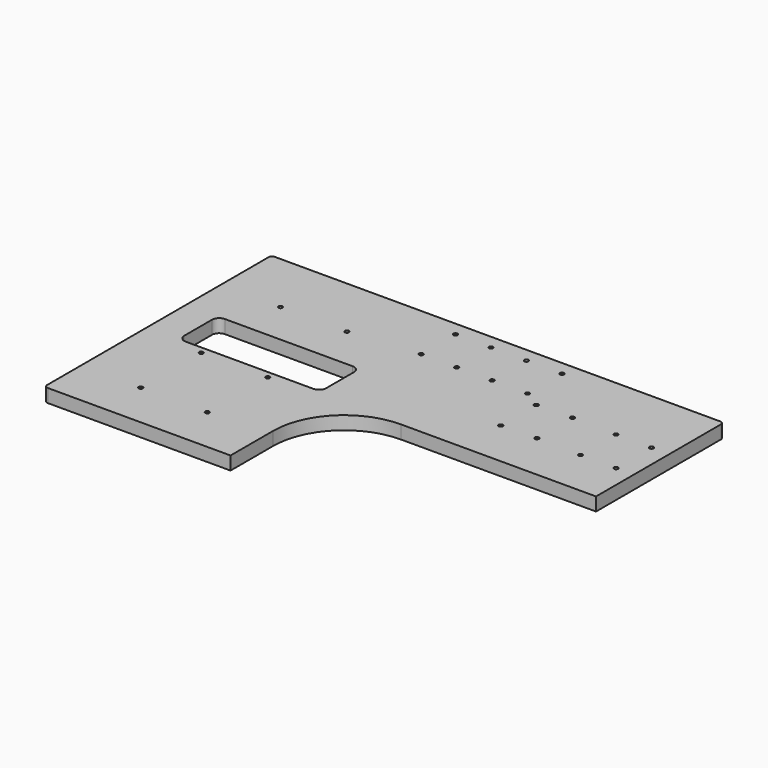
from build123d import *

# Parameters (mm, degrees)
F0_W           = 323.85
F0_H           = 203.2
F1_DEPTH       = 9.525
F2_R           = 2.54
F4_D           = 2.7178
F4_CSINK_D     = 2.9718
F4_CSINK_ANGLE = 82
F5_W           = 101.6
F5_H           = 35.052
F6_DEPTH       = 25.4
F7_R           = 5.08
F10_D          = 19.05
F11_DEPTH      = 25.4


with BuildPart() as f1:
    # F0 (on Top) → F1 (new body)
    with BuildSketch(Plane.XY):
        with Locations((-161.925, 101.6)):
            Rectangle(F0_W, F0_H)
    extrude(amount=F1_DEPTH)

    # F2
    f2_edges = [f1.edges().sort_by_distance(p)[0] for p in [
        (0, 0, 4.7625),
        (0, 203.2, 4.7625),
        (-323.85, 203.2, 4.7625),
        (-323.85, 0, 4.7625),
    ]]
    fillet(f2_edges, radius=F2_R)

    # F4 (through all)
    with Locations(Plane.XY.offset(9.525)):
        with Locations((-280.9748, 157.734), (-233.3498, 157.734), (-233.3498, 86.868), (-280.9748, 86.868), (-280.9748, 32.766), (-233.3498, 32.766), (-183.896, 193.04), (-158.496, 193.04), (-133.096, 193.04), (-107.696, 193.04), (-107.696, 162.306), (-133.096, 162.306), (-158.496, 162.306), (-183.896, 162.306), (-95.25, 154.432), (-95.25, 122.682), (-69.858725, 155.0977), (-69.85, 123.3477), (-38.108725, 154.432), (-38.1, 122.682001), (-12.708725, 154.432), (-12.7, 122.682)):
            CounterSinkHole(F4_D / 2, F4_CSINK_D / 2, counter_sink_angle=F4_CSINK_ANGLE)

    # F5 (on face) → F6 (cut)
    with BuildSketch(Plane.XY.offset(9.525)):
        with Locations((-250.453002, 109.474)):
            Rectangle(F5_W, F5_H)
    extrude(amount=-F6_DEPTH, mode=Mode.SUBTRACT)

    # F7
    f7_edges = [f1.edges().sort_by_distance(p)[0] for p in [
        (-301.253002, 91.948, 4.7625),
        (-301.253002, 127, 4.7625),
        (-199.653002, 127, 4.7625),
        (-199.653002, 91.948, 4.7625),
    ]]
    fillet(f7_edges, radius=F7_R)

    # F10 (through all)
    with Locations(Plane.XY.offset(9.525)):
        with Locations((-29.697825, 46.492874)):
            Hole(F10_D / 2)

    # F8 (on face) → F11 (cut)
    with BuildSketch(Plane.XY.offset(9.525)):
        with BuildLine():
            Line((-190.5, 0), (-2.54, 0))
            ThreePointArc((-2.54, 0), (-0.743949, 0.743949), (0, 2.54))
            Line((0, 2.54), (0, 88.9))
            Line((0, 88.9), (-139.7, 88.9))
            ThreePointArc((-139.7, 88.9), (-175.621024, 74.021024), (-190.5, 38.1))
            Line((-190.5, 38.1), (-190.5, 0))
        make_face()
    extrude(amount=-F11_DEPTH, mode=Mode.SUBTRACT)


solid = f1.part
